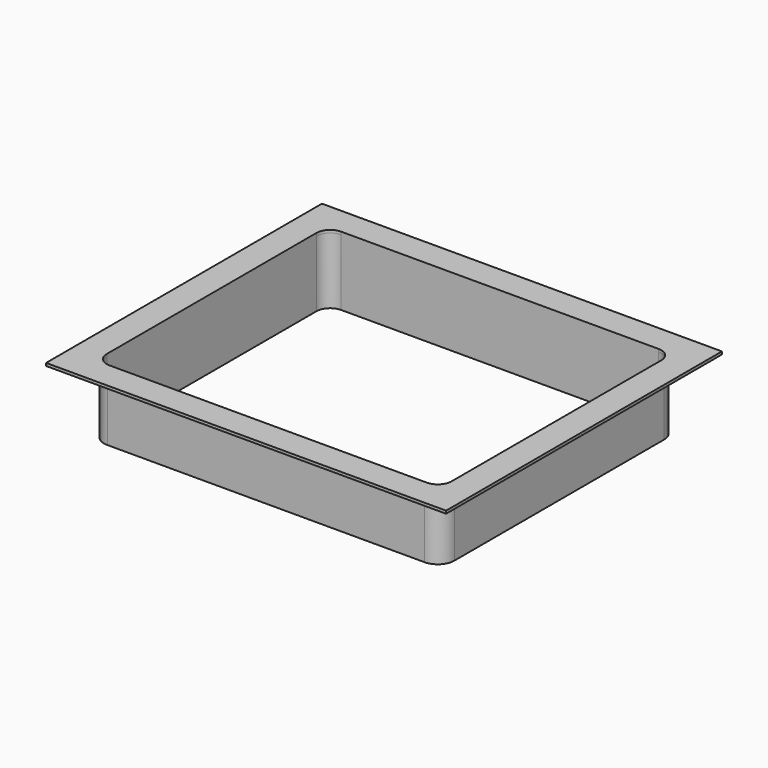
from build123d import *

# Parameters (mm, degrees)
F0_W     = 145
F0_H     = 125
F0_W_2   = 125
F0_H_2   = 105
F1_DEPTH = 1
F2_R     = 5
F4_DEPTH = 25


with BuildPart() as f1:
    # F0 (on Top) → F1 (new body)
    with BuildSketch(Plane.XY):
        Rectangle(F0_W, F0_H)
        Rectangle(F0_W_2, F0_H_2, mode=Mode.SUBTRACT)
    extrude(amount=F1_DEPTH)

    # F2
    f2_edges = [f1.edges().sort_by_distance(p)[0] for p in [
        (-62.5, 52.5, 0.5),
        (-62.5, -52.5, 0.5),
        (62.5, -52.5, 0.5),
        (62.5, 52.5, 0.5),
    ]]
    fillet(f2_edges, radius=F2_R)

    # F3 (on face) → F4 (join)
    with BuildSketch(Plane.XY.offset(1)):
        with BuildLine():
            ThreePointArc((-57.5, 53.500002), (-61.742642, 51.742642), (-63.500002, 47.5))
            Line((-63.500002, 47.5), (-63.500002, -47.5))
            ThreePointArc((-63.500002, -47.5), (-61.742642, -51.742642), (-57.5, -53.500002))
            Line((-57.5, -53.500002), (57.5, -53.500002))
            ThreePointArc((57.5, -53.500002), (61.742642, -51.742642), (63.500002, -47.5))
            Line((63.500002, -47.5), (63.500002, 47.5))
            ThreePointArc((63.500002, 47.5), (61.742642, 51.742642), (57.5, 53.500002))
            Line((57.5, 53.500002), (-57.5, 53.500002))
        make_face()
        with BuildLine():
            ThreePointArc((-57.5, -52.5), (-61.035534, -51.035534), (-62.5, -47.5))
            Line((-62.5, -47.5), (-62.5, 47.5))
            ThreePointArc((-62.5, 47.5), (-61.035534, 51.035534), (-57.5, 52.5))
            Line((-57.5, 52.5), (57.5, 52.5))
            ThreePointArc((57.5, 52.5), (61.035534, 51.035534), (62.5, 47.5))
            Line((62.5, 47.5), (62.5, -47.5))
            ThreePointArc((62.5, -47.5), (61.035534, -51.035534), (57.5, -52.5))
            Line((57.5, -52.5), (-57.5, -52.5))
        make_face(mode=Mode.SUBTRACT)
    extrude(amount=-F4_DEPTH)


solid = f1.part
